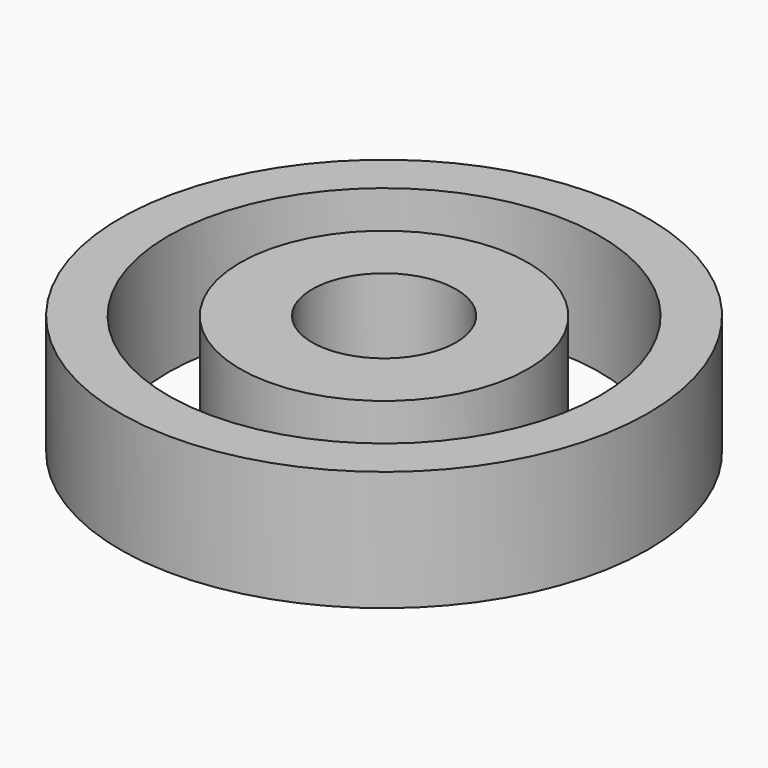
from build123d import *

# Parameters (mm, degrees)
CYLINDER001_R     = 9
CYLINDER001_DEPTH = 10
CYLINDER_R        = 11
CYLINDER_DEPTH    = 5
CYLINDER003_R     = 3
CYLINDER003_DEPTH = 10
CYLINDER002_R     = 6
CYLINDER002_DEPTH = 5


with BuildPart() as cylinder001:
    # Cylinder001 → Cylinder001 (new body)
    with BuildSketch(Plane.XY):
        Circle(CYLINDER001_R)
    extrude(amount=CYLINDER001_DEPTH)


with BuildPart() as cut:
    # Cylinder → Cylinder (new body)
    with BuildSketch(Plane.XY):
        Circle(CYLINDER_R)
    extrude(amount=CYLINDER_DEPTH)

    # Cut: cut Cylinder001
    add(cylinder001.part, mode=Mode.SUBTRACT)


with BuildPart() as cylinder003:
    # Cylinder003 → Cylinder003 (new body)
    with BuildSketch(Plane.XY.offset(-1)):
        Circle(CYLINDER003_R)
    extrude(amount=CYLINDER003_DEPTH)


with BuildPart() as cut001:
    # Cylinder002 → Cylinder002 (new body)
    with BuildSketch(Plane.XY):
        Circle(CYLINDER002_R)
    extrude(amount=CYLINDER002_DEPTH)

    # Cut001: cut Cylinder003
    add(cylinder003.part, mode=Mode.SUBTRACT)


solid = Compound([cut.part, cut001.part])
